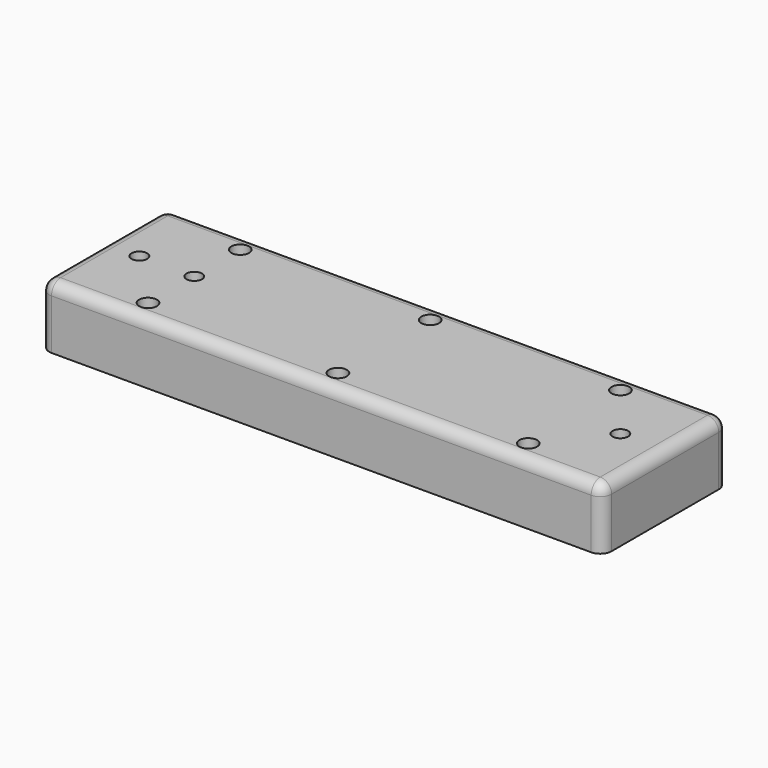
from build123d import *

# Parameters (mm, degrees)
F0_R     = 3.175
F1_DEPTH = 22.0345
F2_R     = 2.54
F3_DEPTH = 12.7
F4_R     = 0.3318916447
F4_R_2   = 0.3293568933
F4_R_3   = 0.3316016918
F5_DEPTH = 25.4
F6_R     = 2.778125
F7_DEPTH = 12.7
F9_R     = 4.064


with BuildPart() as f1:
    # F0 (on Top) → F1 (new body)
    with BuildSketch(Plane.XY):
        with BuildLine():
            Line((197.0278, 0), (4.064, 0))
            ThreePointArc((4.064, 0), (1.1903180413, -1.1903180413), (0, -4.064))
            Line((0, -4.064), (0, -51.943))
            ThreePointArc((0, -51.943), (1.1903180413, -54.8166819587), (4.064, -56.007))
            Line((4.064, -56.007), (197.0278, -56.007))
            ThreePointArc((197.0278, -56.007), (199.9014819587, -54.8166819587), (201.0918, -51.943))
            Line((201.0918, -51.943), (201.0918, -4.064))
            ThreePointArc((201.0918, -4.064), (199.9014819587, -1.1903180413), (197.0278, 0))
        make_face()
        with Locations((32.639, -48.60544)):
            Circle(F0_R, mode=Mode.SUBTRACT)
        with Locations((100.5459, -48.60544)):
            Circle(F0_R, mode=Mode.SUBTRACT)
        with Locations((168.5925, -48.60544)):
            Circle(F0_R, mode=Mode.SUBTRACT)
        with Locations((32.639, -7.3914)):
            Circle(F0_R, mode=Mode.SUBTRACT)
        with Locations((100.5713, -7.3914)):
            Circle(F0_R, mode=Mode.SUBTRACT)
        with Locations((168.5925, -7.3914)):
            Circle(F0_R, mode=Mode.SUBTRACT)
    extrude(amount=-F1_DEPTH)

    # F2 (on face) → F3 (cut)
    with BuildSketch(Plane(origin=(0, 0, -22.0345), x_dir=(1, 0, 0), z_dir=(0, 0, -1))):
        with Locations((56.5658, 48.6156)):
            Circle(F2_R)
        with Locations((142.8115, 7.3914)):
            Circle(F2_R)
    extrude(amount=-F3_DEPTH, mode=Mode.SUBTRACT)

    # F4 (on face) → F5 (cut)
    with BuildSketch(Plane.XY):
        with Locations((32.6898, -28.0035)):
            Circle(F4_R)
        with Locations((13.0556, -27.99842)):
            Circle(F4_R_2)
        with Locations((185.039, -28.0035)):
            Circle(F4_R_3)
    extrude(amount=-F5_DEPTH, mode=Mode.SUBTRACT)

    # F6 (on Top) → F7 (cut)
    with BuildSketch(Plane.XY):
        with Locations((185.0457321729, -27.9965074454)):
            Circle(F6_R)
        with Locations((32.6965321729, -27.9965074454)):
            Circle(F6_R)
        with Locations((13.0623321729, -27.9965074454)):
            Circle(F6_R)
    extrude(amount=-F7_DEPTH, mode=Mode.SUBTRACT)

    # F9
    f9_edges = [f1.edges().sort_by_distance(p)[0] for p in [
        (100.5459, -56.007, 0),
        (199.901482, -54.816682, 0),
        (201.0918, -28.0035, 0),
        (199.901482, -1.190318, 0),
        (100.5459, 0, 0),
        (1.190318, -1.190318, 0),
        (0, -28.0035, 0),
        (1.190318, -54.816682, 0),
    ]]
    fillet(f9_edges, radius=F9_R)


solid = f1.part
